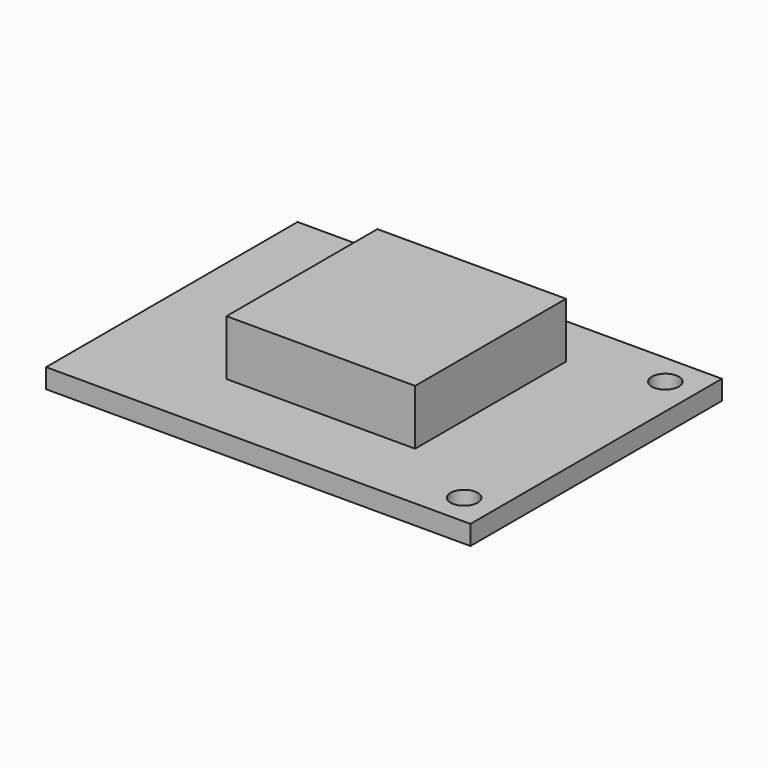
from build123d import *

# Parameters (mm, degrees)
F0_W     = 15.24
F0_H     = 15.24
F1_DEPTH = 6.0452
F0_W_2   = 34.29
F0_H_2   = 25.4
F0_R     = 1.0922
F2_DEPTH = 1.5748


with BuildPart() as f1:
    # F0 (on Top) → F1 (new body)
    with BuildSketch(Plane.XY):
        with Locations((17.526, 13.462)):
            Rectangle(F0_W, F0_H)
    extrude(amount=F1_DEPTH)

    # F0 (on Top) → F2 (join)
    with BuildSketch(Plane.XY):
        with Locations((17.145, 12.7)):
            Rectangle(F0_W_2, F0_H_2)
        with Locations((31.75, 2.54)):
            Circle(F0_R, mode=Mode.SUBTRACT)
        with Locations((17.526, 13.462)):
            Rectangle(F0_W, F0_H, mode=Mode.SUBTRACT)
        with Locations((31.75, 22.86)):
            Circle(F0_R, mode=Mode.SUBTRACT)
    extrude(amount=F2_DEPTH)


solid = f1.part
